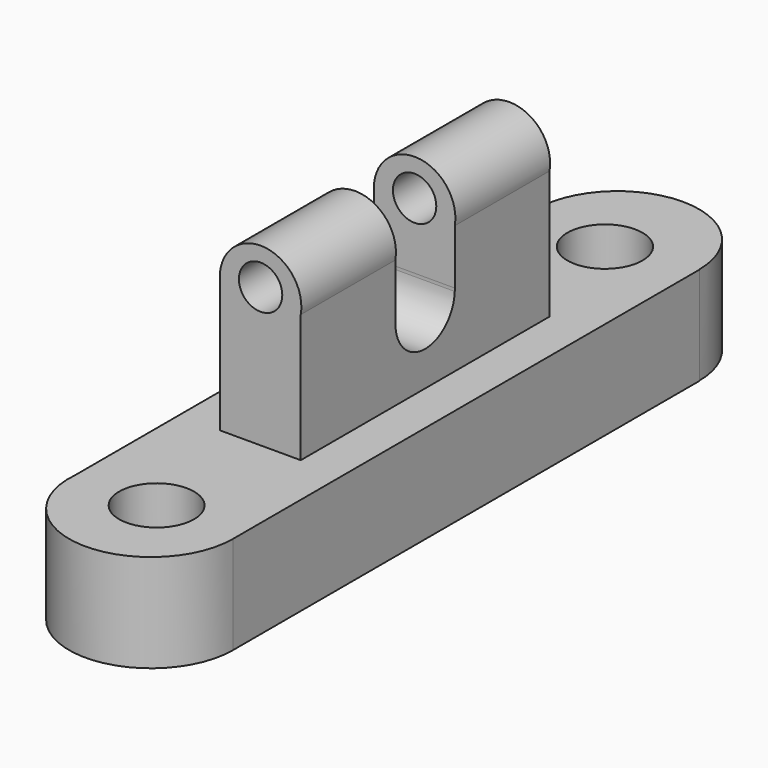
from build123d import *

# Parameters (mm, degrees)
F1_DEPTH      = 16.002
F2_R          = 6.1442753349
F2_R_2        = 6.1243758279
F3_DEPTH      = 16.003
F5_DEPTH      = 25.4
F5_DEPTH_BACK = 25.4
F7_DEPTH      = 24.13
F7_DEPTH_BACK = 27.178
F8_R          = 3.5427392295
F9_DEPTH      = 25.4
F9_DEPTH_BACK = 25.4


with BuildPart() as f1:
    # F0 (on Top) → F1 (new body)
    with BuildSketch(Plane.XY):
        with BuildLine():
            Line((-13.3363356008, 47.4925674498), (13.3363356008, 47.4925674498))
            ThreePointArc((13.3363356008, 47.4925674498), (0, 60.8289030506), (-13.3363356008, 47.4925674498))
        make_face()
        with BuildLine():
            Line((13.3894772224, 47.4925674498), (13.3363356008, 47.4925674498))
            ThreePointArc((13.3363356008, 47.4925674498), (0, 34.156231849), (-13.3363356008, 47.4925674498))
            Line((-13.3363356008, 47.4925674498), (-13.3363356008, -46.5860655079))
            ThreePointArc((-13.3363356008, -46.5860655079), (0.5964639692, -34.4016239833), (13.3894772224, -47.7778092027))
            Line((13.3894772224, -47.7778092027), (13.3894772224, 47.4925674498))
        make_face()
        with BuildLine():
            ThreePointArc((-13.3363356008, 47.4925674498), (0, 34.156231849), (13.3363356008, 47.4925674498))
            Line((13.3363356008, 47.4925674498), (-13.3363356008, 47.4925674498))
        make_face()
        with BuildLine():
            Line((-13.3363356008, -47.7778092027), (-13.3363356008, -46.5860655079))
            ThreePointArc((-13.3363356008, -46.5860655079), (-0.5964639692, -61.1539944221), (13.3894772224, -47.7778092027))
            Line((13.3894772224, -47.7778092027), (-13.3363356008, -47.7778092027))
        make_face()
        with BuildLine():
            ThreePointArc((13.3894772224, -47.7778092027), (0.5964639692, -34.4016239833), (-13.3363356008, -46.5860655079))
            Line((-13.3363356008, -46.5860655079), (-13.3363356008, -47.7778092027))
            Line((-13.3363356008, -47.7778092027), (13.3894772224, -47.7778092027))
        make_face()
    extrude(amount=F1_DEPTH)

    # F2 (on Top) → F3 (cut, through all)
    with BuildSketch(Plane.XY):
        with Locations((0, 44.9254028499)):
            Circle(F2_R)
        with Locations((0, -46.6368459165)):
            Circle(F2_R_2)
    extrude(amount=F3_DEPTH, mode=Mode.SUBTRACT)

    # F4 (on Front) → F5 (join, two sides)
    with BuildSketch(Plane.XZ) as f5_sk:
        with BuildLine():
            ThreePointArc((6.5605365671, 36.938665784), (6.6343469805, 37.5070254574), (6.6590113547, 38.0796268582))
            ThreePointArc((6.6590113547, 38.0796268582), (0, 44.7386382129), (-6.6590113547, 38.0796268582))
            Line((-6.6590113547, 38.0796268582), (6.5605365671, 38.0796268582))
            Line((6.5605365671, 38.0796268582), (6.5605365671, 36.938665784))
        make_face()
        with BuildLine():
            Line((6.5605365671, 38.0796268582), (-6.6590113547, 38.0796268582))
            ThreePointArc((-6.6590113547, 38.0796268582), (-0.5726014008, 31.4452798778), (6.5605365671, 36.938665784))
            Line((6.5605365671, 36.938665784), (6.5605365671, 38.0796268582))
        make_face()
        with BuildLine():
            ThreePointArc((6.5605365671, 36.938665784), (-0.5726014008, 31.4452798778), (-6.6590113547, 38.0796268582))
            Line((-6.6590113547, 38.0796268582), (-6.6590113547, 2.7097861748))
            Line((-6.6590113547, 2.7097861748), (6.5605365671, 2.7097861748))
            Line((6.5605365671, 2.7097861748), (6.5605365671, 36.938665784))
        make_face()
    extrude(amount=F5_DEPTH)
    extrude(f5_sk.sketch, amount=-F5_DEPTH_BACK)

    # F6 (on Right) → F7 (cut, two sides)
    with BuildSketch(Plane.YZ) as f7_sk:
        with BuildLine():
            Line((6.0519274602, 27.9823391251), (6.0519274602, 27.4877400585))
            ThreePointArc((6.0519274602, 27.4877400585), (6.0557152675, 27.6113640409), (6.0569780455, 27.7350395918))
            ThreePointArc((6.0569780455, 27.7350395918), (6.0557152675, 27.8587151427), (6.0519274602, 27.9823391251))
        make_face()
        with BuildLine():
            Line((-6.0569780165, 27.7344470214), (6.0519274602, 27.4877400585))
            Line((6.0519274602, 27.4877400585), (6.0519274602, 27.9823391251))
            ThreePointArc((6.0519274602, 27.9823391251), (-0.1239717742, 33.7907488023), (-6.0569780165, 27.7344470214))
        make_face()
        with BuildLine():
            ThreePointArc((-6.0569780165, 27.7344470214), (-0.1233793273, 21.6793182817), (6.0519274602, 27.4877400585))
            Line((6.0519274602, 27.4877400585), (-6.0569780165, 27.7344470214))
        make_face()
        with BuildLine():
            Line((-6.08606264, 27.7350395918), (-6.0569780165, 27.7344470214))
            ThreePointArc((-6.0569780165, 27.7344470214), (-0.1239717742, 33.7907488023), (6.0519274602, 27.9823391251))
            Line((6.0519274602, 27.9823391251), (6.0519274602, 48.8666966558))
            Line((6.0519274602, 48.8666966558), (-6.08606264, 48.8666966558))
            Line((-6.08606264, 48.8666966558), (-6.08606264, 27.7350395918))
        make_face()
    extrude(amount=-F7_DEPTH, mode=Mode.SUBTRACT)
    extrude(f7_sk.sketch, amount=F7_DEPTH_BACK, mode=Mode.SUBTRACT)

    # F8 (on Front) → F9 (cut, two sides)
    with BuildSketch(Plane.XZ) as f9_sk:
        with Locations((0, 38.7586243451)):
            Circle(F8_R)
    extrude(amount=-F9_DEPTH, mode=Mode.SUBTRACT)
    extrude(f9_sk.sketch, amount=F9_DEPTH_BACK, mode=Mode.SUBTRACT)


solid = f1.part
